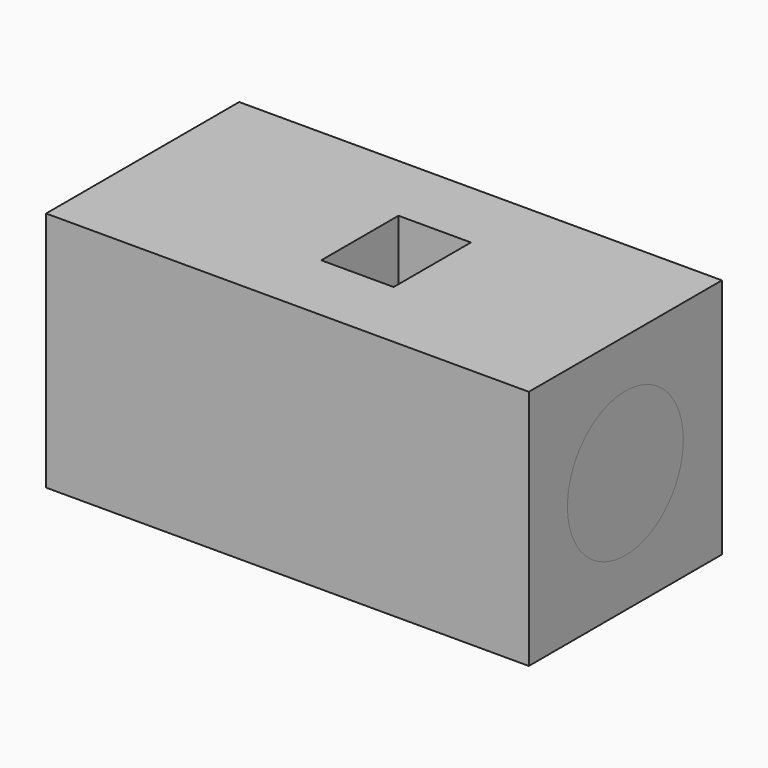
from build123d import *

# Parameters (mm, degrees)
F0_W     = 50
F0_H     = 50
F0_R     = 15
F1_DEPTH = 100
F2_W     = 15
F2_H     = 20
F3_DEPTH = 25
F4_R     = 15
F5_DEPTH = 1


with BuildPart() as f1:
    # F0 (on Right) → F1 (new body)
    with BuildSketch(Plane.YZ):
        Rectangle(F0_W, F0_H)
        Circle(F0_R, mode=Mode.SUBTRACT)
    extrude(amount=F1_DEPTH)

    # F2 (on face) → F3 (cut)
    with BuildSketch(Plane.XY.offset(25)):
        with Locations((52.5, 0)):
            Rectangle(F2_W, F2_H)
    extrude(amount=-F3_DEPTH, mode=Mode.SUBTRACT)


with BuildPart() as f5:
    # F4 (on face) → F5 (new body)
    with BuildSketch(Plane.YZ.offset(100)):
        Circle(F4_R)
    extrude(amount=-F5_DEPTH)


solid = Compound([f1.part, f5.part])
